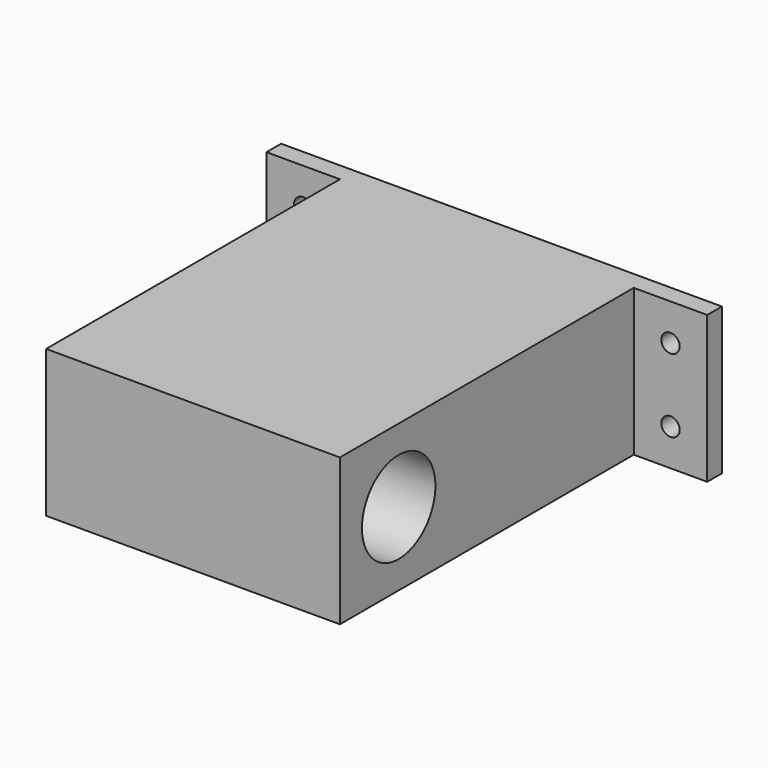
from build123d import *

# Parameters (mm, degrees)
F0_W     = 152.4
F0_H     = 50.8
F1_DEPTH = 6.35
F3_D     = 6.35
F4_W     = 101.6
F4_H     = 50.8
F5_DEPTH = 127
F7_D     = 31.75
F7_DEPTH = 25.4
F7_TIP   = 9.5386623271
F9_D     = 31.75
F9_DEPTH = 25.4
F9_TIP   = 9.5386623271


with BuildPart() as f1:
    # F0 (on Front) → F1 (new body)
    with BuildSketch(Plane.XZ):
        with Locations((76.2, 25.4)):
            Rectangle(F0_W, F0_H)
    extrude(amount=F1_DEPTH)

    # F3 (through all)
    with Locations(Plane.XZ.offset(6.35)):
        with Locations((12.7, 38.1), (12.7, 12.7), (139.7, 38.1), (139.7, 12.7)):
            Hole(F3_D / 2)

    # F4 (on face) → F5 (join)
    with BuildSketch(Plane.XZ.offset(6.35)):
        with Locations((76.2, 25.4)):
            Rectangle(F4_W, F4_H)
    extrude(amount=F5_DEPTH)

    # F7
    with Locations(Plane.YZ.offset(127)):
        with Locations((-107.95, 25.4)):
            Hole(F7_D / 2, depth=F7_DEPTH)
            with Locations((0, 0, -(F7_DEPTH + F7_TIP / 2))):  # 118° drill point
                Cone(0, F7_D / 2, F7_TIP, mode=Mode.SUBTRACT)

    # F9
    with Locations(Plane(origin=(25.4, 0, 0), x_dir=(0, -1, 0), z_dir=(-1, 0, 0))):
        with Locations((107.95, 25.4)):
            Hole(F9_D / 2, depth=F9_DEPTH)
            with Locations((0, 0, -(F9_DEPTH + F9_TIP / 2))):  # 118° drill point
                Cone(0, F9_D / 2, F9_TIP, mode=Mode.SUBTRACT)


solid = f1.part
